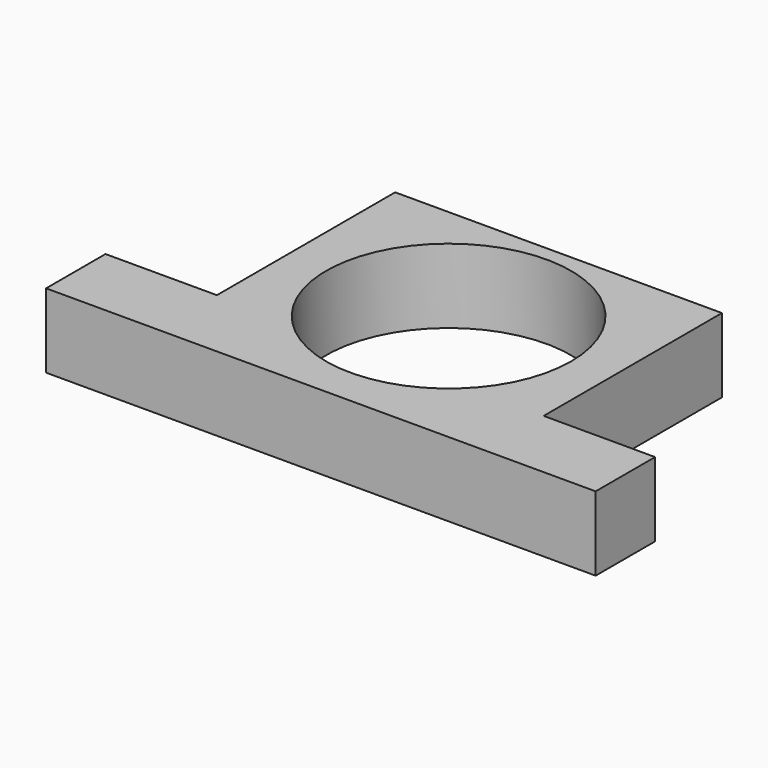
from build123d import *

# Parameters (mm, degrees)
F0_W     = 37
F0_H     = 5
F1_DEPTH = 5
F2_W     = 22
F2_H     = 5
F3_DEPTH = 15
F4_R     = 8.25
F5_DEPTH = 25.4


with BuildPart() as f1:
    # F0 (on Top) → F1 (new body)
    with BuildSketch(Plane.XY):
        with Locations((16.031665, -2.5)):
            Rectangle(F0_W, F0_H)
    extrude(amount=F1_DEPTH)

    # F2 (on face) → F3 (join)
    with BuildSketch(Plane(origin=(0, 0, 0), x_dir=(-1, 0, 0), z_dir=(0, 1, 0))):
        with Locations((-16.031665, 2.5)):
            Rectangle(F2_W, F2_H)
    extrude(amount=F3_DEPTH)

    # F4 (on face) → F5 (cut)
    with BuildSketch(Plane.XY.offset(5)):
        with Locations((16.031665, 5.75)):
            Circle(F4_R)
    extrude(amount=-F5_DEPTH, mode=Mode.SUBTRACT)


solid = f1.part
